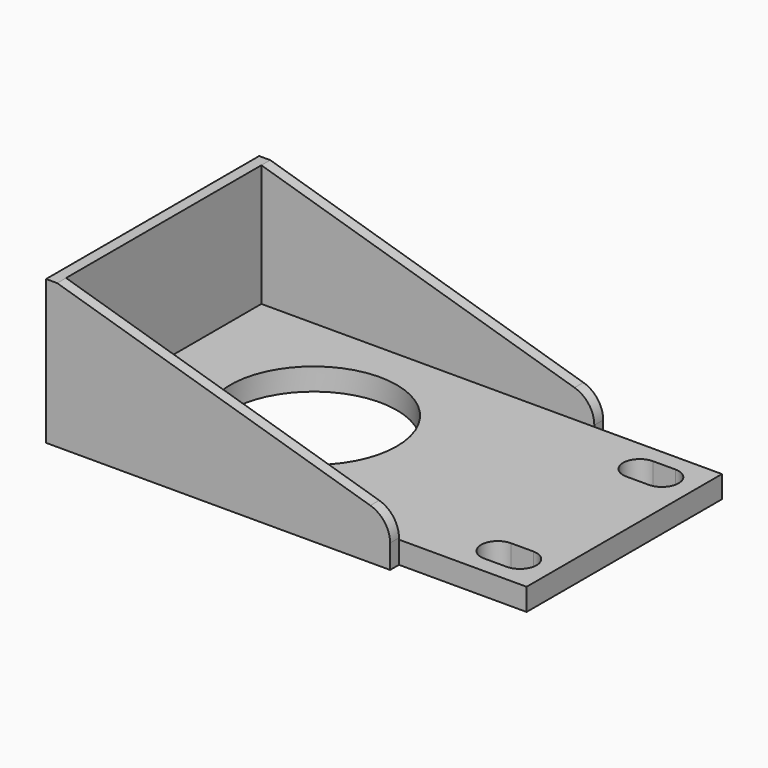
from build123d import *

# Parameters (mm, degrees)
F0_W      = 77
F0_H      = 44
F0_R      = 15
F1_DEPTH  = 4
F2_W      = 54
F2_H      = 2
F3_DEPTH  = 4
F4_W      = 2
F4_H      = 48
F5_DEPTH  = 4
F6_W      = 2
F6_H      = 48
F7_DEPTH  = 22
F9_DEPTH  = 2
F11_DEPTH = 2
F12_R     = 5
F13_R     = 5


with BuildPart() as f1:
    # F0 (on Top) → F1 (new body)
    with BuildSketch(Plane.XY):
        with Locations((5.464885, 29.412094)):
            Rectangle(F0_W, F0_H)
        with BuildLine():
            ThreePointArc((37.964885, 16.412094), (40.086206, 15.533415), (40.964885, 13.412094))
            ThreePointArc((40.964885, 13.412094), (40.086206, 11.290774), (37.964885, 10.412094))
            Line((37.964885, 10.412094), (33.964885, 10.412094))
            ThreePointArc((33.964885, 10.412094), (30.964885, 13.412094), (33.964885, 16.412094))
            Line((33.964885, 16.412094), (37.964885, 16.412094))
        make_face(mode=Mode.SUBTRACT)
        with Locations((-12.035115, 29.412094)):
            Circle(F0_R, mode=Mode.SUBTRACT)
        with BuildLine():
            ThreePointArc((37.964885, 48.412094), (40.086206, 47.533415), (40.964885, 45.412094))
            ThreePointArc((40.964885, 45.412094), (40.086206, 43.290774), (37.964885, 42.412094))
            Line((37.964885, 42.412094), (33.964885, 42.412094))
            ThreePointArc((33.964885, 42.412094), (30.964885, 45.412094), (33.964885, 48.412094))
            Line((33.964885, 48.412094), (37.964885, 48.412094))
        make_face(mode=Mode.SUBTRACT)
    extrude(amount=F1_DEPTH)



with BuildPart() as f3:
    # F2 (on face) → F3 (new body)
    with BuildSketch(Plane.XY.offset(4)):
        with Locations((-6.035115, 52.412094)):
            Rectangle(F2_W, F2_H)
        Polygon((-33.035115, 7.412094), (-33.035115, 51.412094), (-33.035115, 53.412094), (-39.035115, 53.412094), (-39.035115, 5.412094), (-33.035115, 5.412094), align=None)
        with Locations((-6.035115, 6.412094)):
            Rectangle(F2_W, F2_H)
    extrude(amount=-F3_DEPTH)

    # F4 (on face) → F5 (join)
    with BuildSketch(Plane.XY.offset(4)):
        with Locations((-40.035115, 29.412094)):
            Rectangle(F4_W, F4_H)
    extrude(amount=-F5_DEPTH)

    # F6 (on face) → F7 (join)
    with BuildSketch(Plane.XY.offset(4)):
        with Locations((-40.035115, 29.412094)):
            Rectangle(F6_W, F6_H)
    extrude(amount=F7_DEPTH)


with BuildPart() as f1_1:
    add(f1.part)

    add(f3.part)  # F9 merges F3
    # F8 (on face) → F9 (join)
    with BuildSketch(Plane.XZ.offset(-5.412094)):
        Polygon((-39.035115, 4), (20.964885, 4), (20.964885, 8), (-39.035115, 26), align=None)
    extrude(amount=-F9_DEPTH)

    # F10 (on face) → F11 (join)
    with BuildSketch(Plane(origin=(0, 53.412094, 0), x_dir=(-1, 0, 0), z_dir=(0, 1, 0))):
        Polygon((-20.964885, 8), (-20.964885, 4), (39.035115, 4), (39.035115, 26), align=None)
    extrude(amount=-F11_DEPTH)

    # F12
    f12_edges = [f1_1.edges().sort_by_distance(p)[0] for p in [
        (20.964885, 52.412094, 8),
    ]]
    fillet(f12_edges, radius=F12_R)

    # F13
    f13_edges = [f1_1.edges().sort_by_distance(p)[0] for p in [
        (20.964885, 6.412094, 8),
    ]]
    fillet(f13_edges, radius=F13_R)


solid = f1_1.part
